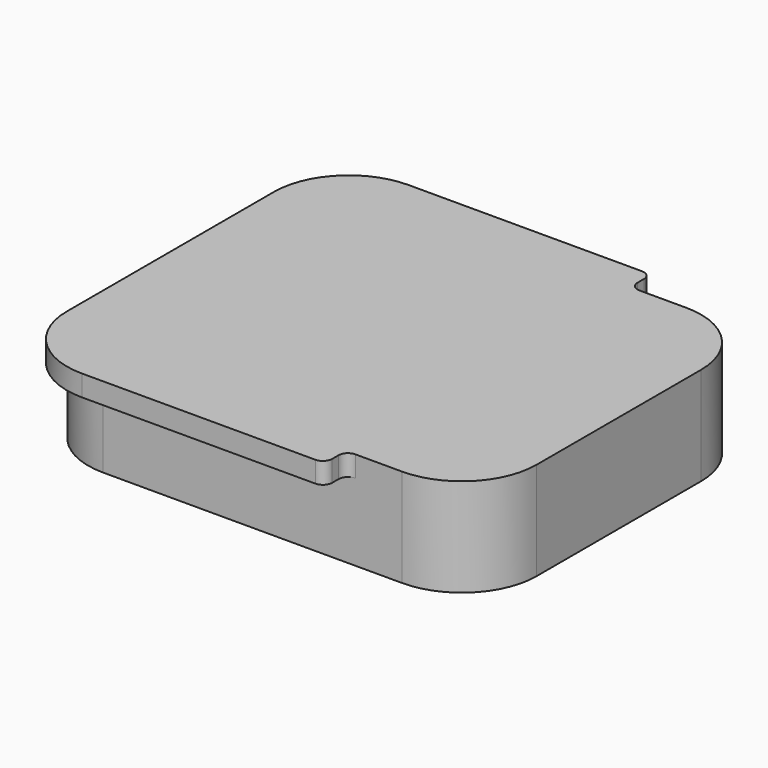
from build123d import *

# Parameters (mm, degrees)
F1_DEPTH = 10.5
F3_DEPTH = 2.25
F4_R     = 1


with BuildPart() as f1:
    # F0 (on Top) → F1 (new body)
    with BuildSketch(Plane.XY):
        with BuildLine():
            Line((16, 19), (-16, 19))
            ThreePointArc((-16, 19), (-21.6568542495, 16.6568542495), (-24, 11))
            Line((-24, 11), (-24, -11))
            ThreePointArc((-24, -11), (-21.6568542495, -16.6568542495), (-16, -19))
            Line((-16, -19), (16, -19))
            ThreePointArc((16, -19), (21.6568542495, -16.6568542495), (24, -11))
            Line((24, -11), (24, 11))
            ThreePointArc((24, 11), (21.6568542495, 16.6568542495), (16, 19))
        make_face()
    extrude(amount=F1_DEPTH)

    # F2 (on face) → F3 (join)
    with BuildSketch(Plane.XY.offset(10.5)):
        with BuildLine():
            Line((10, 21.85), (-16, 21.85))
            ThreePointArc((-16, 21.85), (-21.6568542495, 19.5068542495), (-24, 13.85))
            Line((-24, 13.85), (-24, 11))
            ThreePointArc((-24, 11), (-21.6568542495, 16.6568542495), (-16, 19))
            Line((-16, 19), (10, 19))
            Line((10, 19), (10, 21.85))
        make_face()
        with BuildLine():
            Line((10, -21.85), (10, -19))
            Line((10, -19), (-16, -19))
            ThreePointArc((-16, -19), (-21.6568542495, -16.6568542495), (-24, -11))
            Line((-24, -11), (-24, -13.85))
            ThreePointArc((-24, -13.85), (-21.6568542495, -19.5068542495), (-16, -21.85))
            Line((-16, -21.85), (10, -21.85))
        make_face()
    extrude(amount=-F3_DEPTH)

    # F4
    f4_edges = [f1.edges().sort_by_distance(p)[0] for p in [
        (10, -19, 9.375),
        (10, -21.85, 9.375),
        (10, 21.85, 9.375),
        (10, 19, 9.375),
    ]]
    fillet(f4_edges, radius=F4_R)


solid = f1.part
